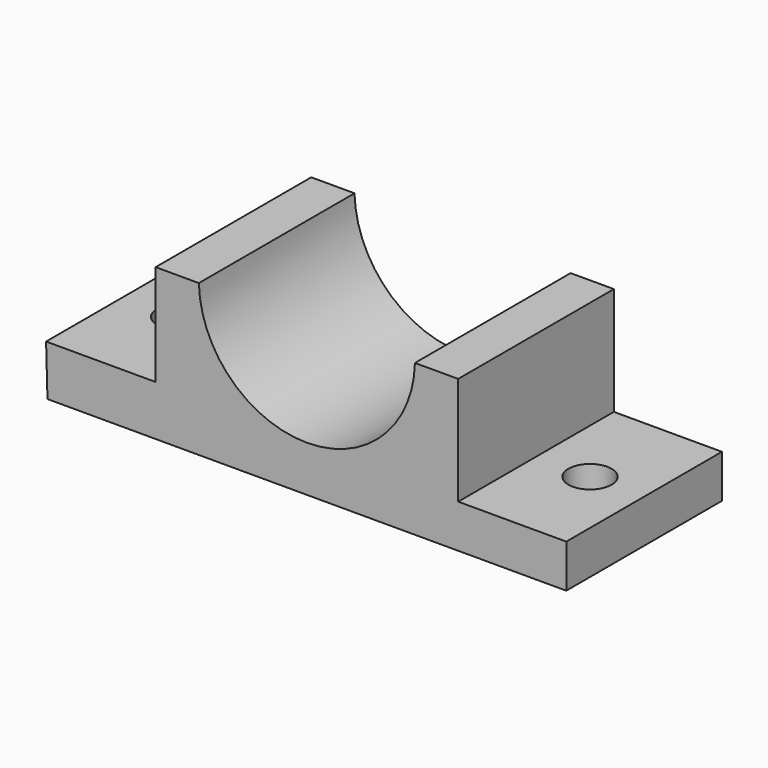
from build123d import *

# Parameters (mm, degrees)
F1_DEPTH = 22.5
F2_R     = 2.5
F3_DEPTH = 5.001
F4_R     = 2.5
F5_DEPTH = 5.807106


with BuildPart() as f1:
    # F0 (on Front) → F1 (new body)
    with BuildSketch(Plane.XZ):
        with BuildLine():
            Line((-27.208689, 5.806106), (-27.048263, 0))
            Line((-27.048263, 0), (32.951737, 0))
            Line((32.951737, 0), (32.951737, 5))
            Line((32.951737, 5), (20.451737, 5))
            Line((20.451737, 5), (20.451737, 17.5))
            Line((20.451737, 17.5), (15.451737, 17.5))
            ThreePointArc((15.451737, 17.5), (2.955538, 5.308247), (-9.540661, 17.5))
            Line((-9.540661, 17.5), (-14.540661, 17.5))
            Line((-14.540661, 17.5), (-14.540661, 5.806106))
            Line((-14.540661, 5.806106), (-14.708689, 5.806106))
            Line((-14.708689, 5.806106), (-27.208689, 5.806106))
        make_face()
    extrude(amount=F1_DEPTH)

    # F2 (on face) → F3 (cut, through all)
    with BuildSketch(Plane.XY.offset(5)):
        with Locations((26.701737, -11.25)):
            Circle(F2_R)
    extrude(amount=-F3_DEPTH, mode=Mode.SUBTRACT)

    # F4 (on face) → F5 (cut, through all)
    with BuildSketch(Plane.XY.offset(5.806106)):
        with Locations((-20.874675, -11.25)):
            Circle(F4_R)
    extrude(amount=-F5_DEPTH, mode=Mode.SUBTRACT)


solid = f1.part
